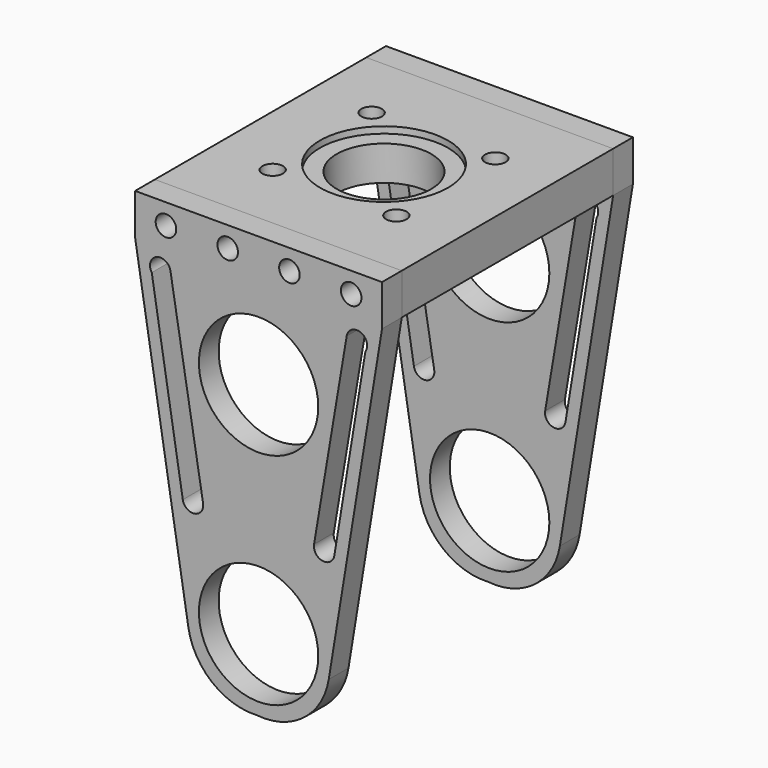
from build123d import *

# Parameters (mm, degrees)
F0_W      = 60
F0_H      = 10
F0_R      = 2.5
F0_R_2    = 14.5
F1_DEPTH  = 6
F2_DEPTH  = 32.1
F3_DEPTH  = 8
F6_R      = 11.5
F7_DEPTH  = 10
F8_R      = 2.5
F9_DEPTH  = 10
F10_R     = 15.5575
F11_DEPTH = 1.587


with BuildPart() as f1:
    # F0 (on Front) → F1 (new body)
    with BuildSketch(Plane.XZ):
        with Locations((0, 61.5281317513)):
            Rectangle(F0_W, F0_H)
        with Locations((-22.5, 61.5281317513)):
            Circle(F0_R, mode=Mode.SUBTRACT)
        with Locations((-7.5, 61.5281317513)):
            Circle(F0_R, mode=Mode.SUBTRACT)
        with Locations((7.5, 61.5281317513)):
            Circle(F0_R, mode=Mode.SUBTRACT)
        with Locations((22.5, 61.5281317513)):
            Circle(F0_R, mode=Mode.SUBTRACT)
        with BuildLine():
            Line((17.0513378591, -22.6773169828), (30, 56.5281317513))
            Line((30, 56.5281317513), (-30, 56.5281317513))
            Line((-30, 56.5281317513), (-17.062262926, -22.6104896287))
            ThreePointArc((-17.062262926, -22.6104896287), (-11.3068226352, -32.4909871461), (-0.4261409112, -36.00667902))
            ThreePointArc((-0.4261409112, -36.00667902), (10.9637203229, -32.8181528018), (17.0513378591, -22.6773169828))
        make_face()
        with Locations((0, -18.5118682487)):
            Circle(F0_R_2, mode=Mode.SUBTRACT)
        with BuildLine():
            ThreePointArc((-13.4814185504, 5.0702462923), (-15.5319035448, 2.1900533669), (-18.4120964702, 4.2405383614))
            Line((-18.4120964702, 4.2405383614), (-25.9558982607, 50.3850897807))
            ThreePointArc((-25.9558982607, 50.3850897807), (-24.7956745607, 54.0951421214), (-21.4097474287, 52.1856644803))
            Line((-21.4097474287, 52.1856644803), (-13.4814185504, 5.0702462923))
        make_face(mode=Mode.SUBTRACT)
        with Locations((0, 34.8281317513)):
            Circle(F0_R_2, mode=Mode.SUBTRACT)
        with BuildLine():
            Line((13.4814185504, 5.0702462923), (21.4097474287, 52.1856644803))
            ThreePointArc((21.4097474287, 52.1856644803), (24.7956745607, 54.0951421214), (25.9558982607, 50.3850897807))
            Line((25.9558982607, 50.3850897807), (18.4120964702, 4.2405383614))
            ThreePointArc((18.4120964702, 4.2405383614), (15.5319035448, 2.1900533669), (13.4814185504, 5.0702462923))
        make_face(mode=Mode.SUBTRACT)
    extrude(amount=F1_DEPTH)


with BuildPart() as f2:
    # F0 (on Front) → F2 (new body)
    with BuildSketch(Plane.XZ):
        with Locations((0, 61.5281317513)):
            Rectangle(F0_W, F0_H)
        with Locations((-22.5, 61.5281317513)):
            Circle(F0_R, mode=Mode.SUBTRACT)
        with Locations((-7.5, 61.5281317513)):
            Circle(F0_R, mode=Mode.SUBTRACT)
        with Locations((7.5, 61.5281317513)):
            Circle(F0_R, mode=Mode.SUBTRACT)
        with Locations((22.5, 61.5281317513)):
            Circle(F0_R, mode=Mode.SUBTRACT)
        with Locations((-22.5, 61.5281317513)):
            Circle(F0_R)
        with Locations((-7.5, 61.5281317513)):
            Circle(F0_R)
        with Locations((7.5, 61.5281317513)):
            Circle(F0_R)
        with Locations((22.5, 61.5281317513)):
            Circle(F0_R)
    extrude(amount=-F2_DEPTH)

    # F0 (on Front) → F3 (cut)
    with BuildSketch(Plane.XZ):
        with Locations((-22.5, 61.5281317513)):
            Circle(F0_R)
        with Locations((-7.5, 61.5281317513)):
            Circle(F0_R)
        with Locations((7.5, 61.5281317513)):
            Circle(F0_R)
        with Locations((22.5, 61.5281317513)):
            Circle(F0_R)
    extrude(amount=-F3_DEPTH, mode=Mode.SUBTRACT)

    # F5: F2 across face


with BuildPart() as f4_1:
    # F4: instance of F1
    add(f1.part.mirror(Plane(origin=(0, 32.1, 61.5281317513), x_dir=(1, 0, 0), z_dir=(0, 1, 0))))


with BuildPart() as f2_1:
    add(f2.part)
    add(f2.part.mirror(Plane(origin=(0, 32.1, 61.5281317513), x_dir=(1, 0, 0), z_dir=(0, 1, 0))))

    # F6 (on face) → F7 (cut, through all)
    with BuildSketch(Plane.XY.offset(66.5281317513)):
        with Locations((0, 32.1)):
            Circle(F6_R)
    extrude(amount=-F7_DEPTH, mode=Mode.SUBTRACT)

    # F8 (on face) → F9 (cut, through all)
    with BuildSketch(Plane.XY.offset(66.5281317513)):
        with Locations((-15.026, 47.126)):
            Circle(F8_R)
        with Locations((-15.026, 17.074)):
            Circle(F8_R)
        with Locations((15.026, 47.126)):
            Circle(F8_R)
        with Locations((15.026, 17.074)):
            Circle(F8_R)
    extrude(amount=-F9_DEPTH, mode=Mode.SUBTRACT)

    # F10 (on face) → F11 (cut)
    with BuildSketch(Plane.XY.offset(66.5281317513)):
        with Locations((0, 32.1)):
            Circle(F10_R)
    extrude(amount=-F11_DEPTH, mode=Mode.SUBTRACT)


solid = Compound([f1.part, f4_1.part, f2_1.part])
